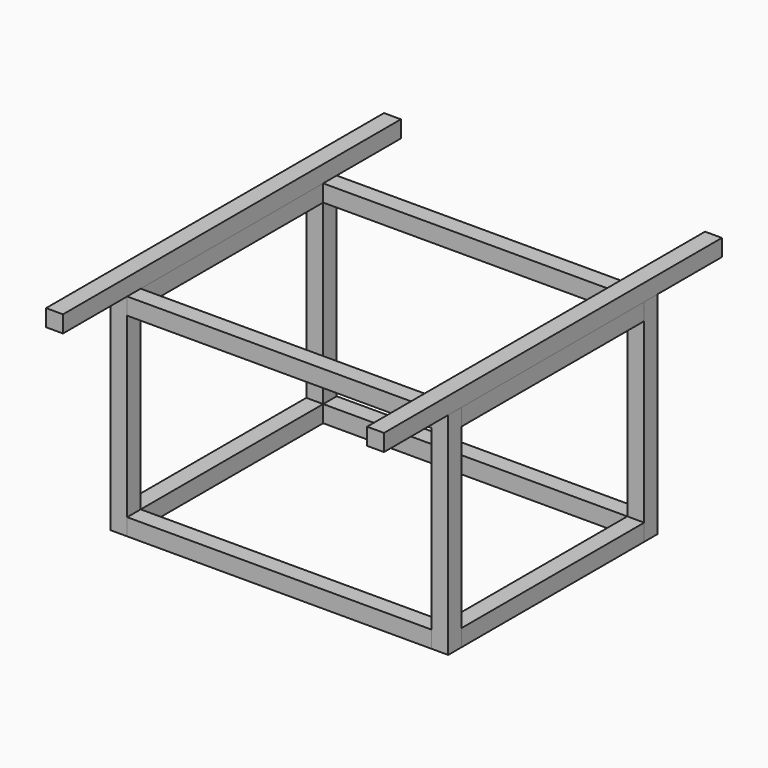
from build123d import *

# Parameters (mm, degrees)
F0_W     = 20
F0_H     = 20
F1_DEPTH = 250
F2_W     = 20
F2_H     = 20
F3_DEPTH = 250
F4_W     = 20
F4_H     = 20
F5_DEPTH = 270
F6_W     = 20
F6_H     = 20
F7_DEPTH = 360


with BuildPart() as f1:
    # F0 (on Front) → F1 (new body, symmetric)
    with BuildSketch(Plane.XZ):
        with Locations((-190, 10)):
            Rectangle(F0_W, F0_H)
        with Locations((190, 10)):
            Rectangle(F0_W, F0_H)
    extrude(amount=F1_DEPTH, both=True)


with BuildPart() as f3:
    # F2 (on face) → F3 (new body)
    with BuildSketch(Plane(origin=(0, 0, 0), x_dir=(1, 0, 0), z_dir=(0, 0, -1))):
        with Locations((-190, 145)):
            Rectangle(F2_W, F2_H)
        with Locations((190, 145)):
            Rectangle(F2_W, F2_H)
        with Locations((190, -145)):
            Rectangle(F2_W, F2_H)
        with Locations((-190, -145)):
            Rectangle(F2_W, F2_H)
    extrude(amount=F3_DEPTH)


with BuildPart() as f5:
    # F4 (on face) → F5 (new body, through all)
    with BuildSketch(Plane.XZ.offset(-135)):
        with Locations((-190, -10)):
            Rectangle(F4_W, F4_H)
        with Locations((-190, -240)):
            Rectangle(F4_W, F4_H)
        with Locations((190, -10)):
            Rectangle(F4_W, F4_H)
        with Locations((190, -240)):
            Rectangle(F4_W, F4_H)
    extrude(amount=F5_DEPTH)


with BuildPart() as f7:
    # F6 (on face) → F7 (new body, through all)
    with BuildSketch(Plane.YZ.offset(-180)):
        with Locations((145, -10)):
            Rectangle(F6_W, F6_H)
        with Locations((145, -240)):
            Rectangle(F6_W, F6_H)
        with Locations((-145, -240)):
            Rectangle(F6_W, F6_H)
        with Locations((-145, -10)):
            Rectangle(F6_W, F6_H)
    extrude(amount=F7_DEPTH)


solid = Compound([f1.part, f3.part, f5.part, f7.part])
